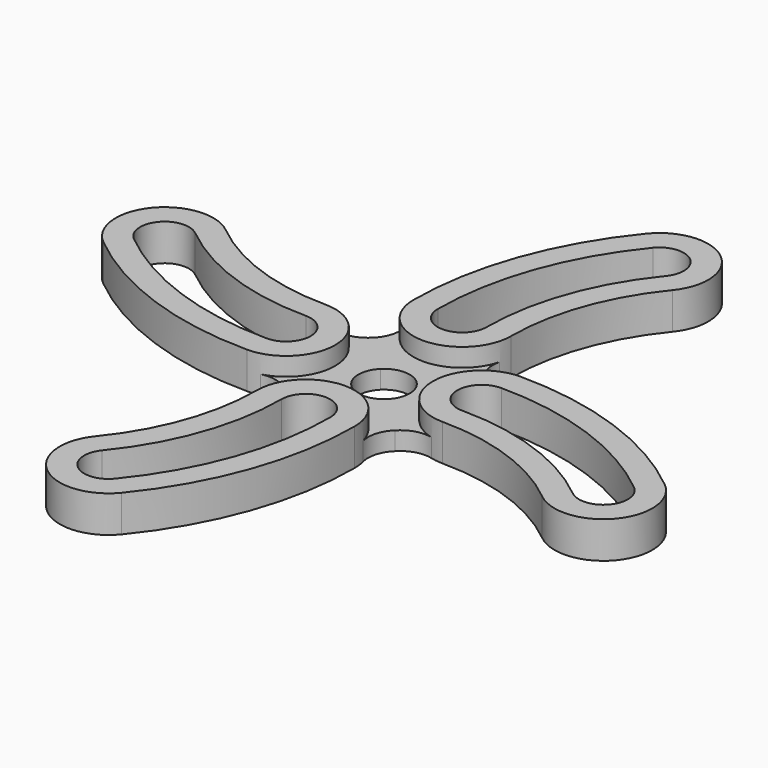
from build123d import *

# Parameters (mm, degrees)
PAD_DEPTH          = 30
PAD001_DEPTH       = 15
POLARPATTERN_COUNT = 4


with BuildPart() as part:
    # Sketch (on XY_Plane of Origin) → Pad (new body)
    with BuildSketch(Plane.XY):
        with BuildLine():
            ThreePointArc((244.764719, -18.871714), (167.483272, 24.840105), (80, 40))
            ThreePointArc((80, 40), (40, 0), (80, -40))
            ThreePointArc((194.067882, -80.75734), (140.565342, -50.495312), (80, -40))
            ThreePointArc((194.067882, -80.75734), (250.359114, -75.162945), (244.764719, -18.871714))
        make_face()
        with BuildLine():
            ThreePointArc((206.742091, -65.285934), (147.294824, -31.661457), (80, -20))
            ThreePointArc((80, 20), (60, 0), (80, -20))
            ThreePointArc((232.09051, -34.34312), (160.753789, 6.006251), (80, 20))
            ThreePointArc((206.742091, -65.285934), (234.887707, -62.488736), (232.09051, -34.34312))
        make_face(mode=Mode.SUBTRACT)
    extrude(amount=PAD_DEPTH)

    # Sketch001 (on XY_Plane of Origin) → Pad001 (join)
    with BuildSketch(Plane.XY):
        with BuildLine():
            ThreePointArc((14.849242, -14.849242), (21, 0), (14.849242, 14.849242))
            Line((14.849242, 14.849242), (45.670006, 45.670006))
            ThreePointArc((45.670006, 45.670006), (56.892253, 38.894945), (70, 38.729833))
            ThreePointArc((70, 38.729833), (40, 0), (70, -38.729833))
            ThreePointArc((70, -38.729833), (56.892253, -38.894945), (45.670006, -45.670006))
            Line((45.670006, -45.670006), (14.849242, -14.849242))
        make_face()
    extrude(amount=PAD001_DEPTH)

    # PolarPattern: part ×4 about axis
    polarpattern_axis = Axis((0, 0, 0), (0, 0, 1))


with BuildPart() as part_1:
    add(part.part)
    for i in range(1, POLARPATTERN_COUNT):
        add(part.part.rotate(polarpattern_axis, i * 360 / POLARPATTERN_COUNT))


solid = part_1.part
